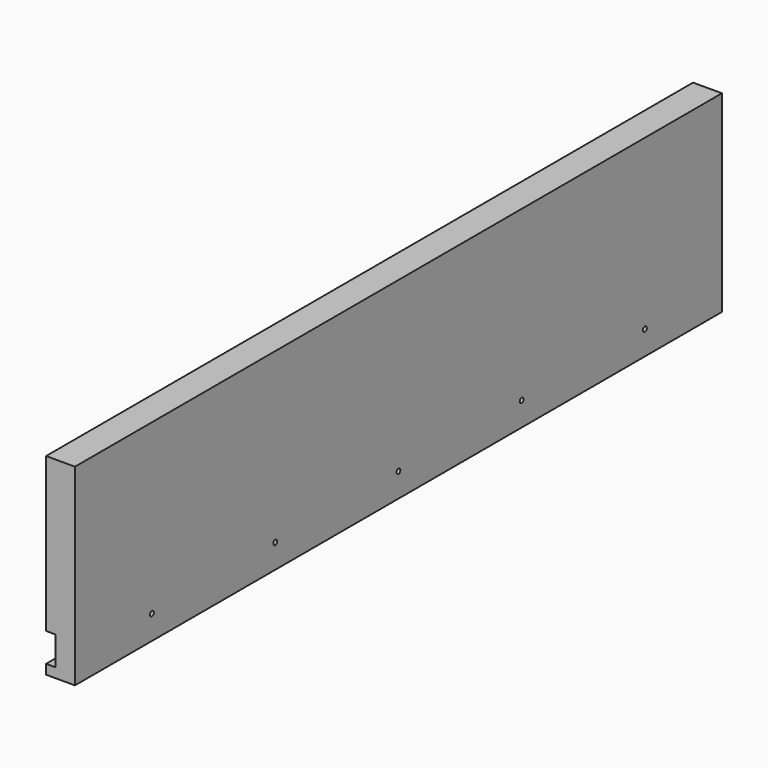
from build123d import *

# Parameters (mm, degrees)
F0_W     = 533.4
F0_H     = 127
F1_DEPTH = 19.05
F2_W     = 533.4
F2_H     = 19.05
F3_DEPTH = 6.35
F4_R     = 1.5875
F5_DEPTH = 19.051


with BuildPart() as f1:
    # F0 (on Right) → F1 (new body)
    with BuildSketch(Plane.YZ):
        with Locations((266.7, -63.5)):
            Rectangle(F0_W, F0_H)
    extrude(amount=F1_DEPTH)

    # F2 (on Right) → F3 (cut)
    with BuildSketch(Plane.YZ):
        with Locations((266.7, -111.125)):
            Rectangle(F2_W, F2_H)
    extrude(amount=F3_DEPTH, mode=Mode.SUBTRACT)

    # F4 (on Right) → F5 (cut, through all)
    with BuildSketch(Plane.YZ):
        with Locations((469.9, -111.125)):
            Circle(F4_R)
        with Locations((368.3, -111.125)):
            Circle(F4_R)
        with Locations((266.7, -111.125)):
            Circle(F4_R)
        with Locations((165.1, -111.125)):
            Circle(F4_R)
        with Locations((63.5, -111.125)):
            Circle(F4_R)
    extrude(amount=F5_DEPTH, mode=Mode.SUBTRACT)


solid = f1.part
